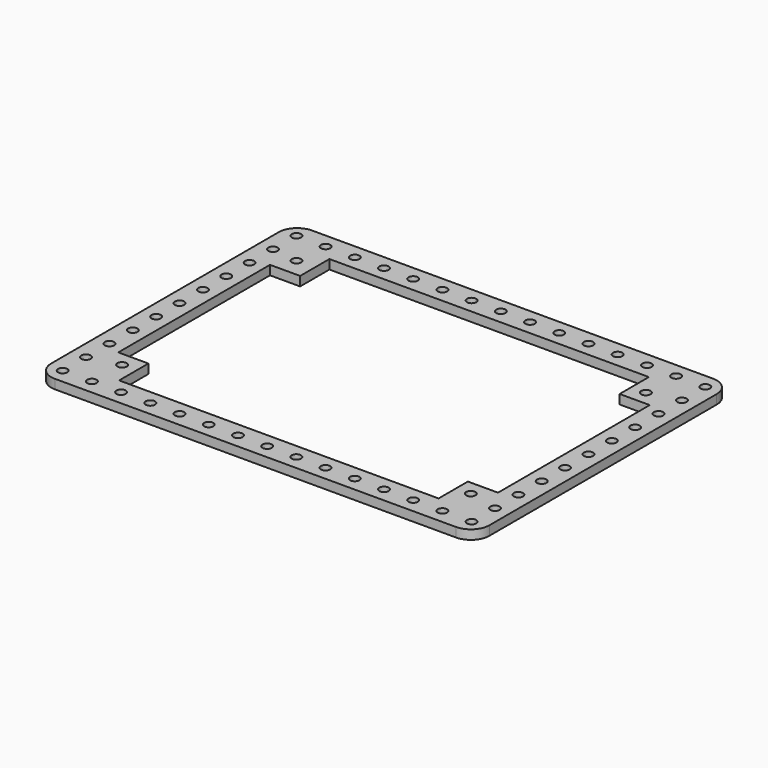
from build123d import *

# Parameters (mm, degrees)
F0_R     = 1.6
F1_DEPTH = 3.175


with BuildPart() as f1:
    # F0 (on Top) → F1 (new body)
    with BuildSketch(Plane.XY):
        with BuildLine():
            ThreePointArc((0, 6.35), (1.859872, 1.859872), (6.35, 0))
            Line((6.35, 0), (143.65, 0))
            ThreePointArc((143.65, 0), (148.140128, 1.859872), (150, 6.35))
            Line((150, 6.35), (150, 103.65))
            ThreePointArc((150, 103.65), (148.140128, 108.140128), (143.65, 110))
            Line((143.65, 110), (6.35, 110))
            ThreePointArc((6.35, 110), (1.859872, 108.140128), (0, 103.65))
            Line((0, 103.65), (0, 6.35))
        make_face()
        with Locations((5, 5)):
            Circle(F0_R, mode=Mode.SUBTRACT)
        with Locations((15, 5)):
            Circle(F0_R, mode=Mode.SUBTRACT)
        with Locations((25, 5)):
            Circle(F0_R, mode=Mode.SUBTRACT)
        with Locations((35, 5)):
            Circle(F0_R, mode=Mode.SUBTRACT)
        with Locations((5, 15)):
            Circle(F0_R, mode=Mode.SUBTRACT)
        with Locations((15.31, 17.535)):
            Circle(F0_R, mode=Mode.SUBTRACT)
        with Locations((5, 25)):
            Circle(F0_R, mode=Mode.SUBTRACT)
        with Locations((45, 5)):
            Circle(F0_R, mode=Mode.SUBTRACT)
        with Locations((55, 5)):
            Circle(F0_R, mode=Mode.SUBTRACT)
        with Locations((65, 5)):
            Circle(F0_R, mode=Mode.SUBTRACT)
        with Locations((5, 35)):
            Circle(F0_R, mode=Mode.SUBTRACT)
        with Locations((5, 45)):
            Circle(F0_R, mode=Mode.SUBTRACT)
        with Locations((75, 5)):
            Circle(F0_R, mode=Mode.SUBTRACT)
        with Locations((85, 5)):
            Circle(F0_R, mode=Mode.SUBTRACT)
        with Locations((95, 5)):
            Circle(F0_R, mode=Mode.SUBTRACT)
        with Locations((105, 5)):
            Circle(F0_R, mode=Mode.SUBTRACT)
        with Locations((115, 5)):
            Circle(F0_R, mode=Mode.SUBTRACT)
        with Locations((125, 5)):
            Circle(F0_R, mode=Mode.SUBTRACT)
        with Locations((135, 5)):
            Circle(F0_R, mode=Mode.SUBTRACT)
        with Locations((145, 5)):
            Circle(F0_R, mode=Mode.SUBTRACT)
        with Locations((134.69, 17.535)):
            Circle(F0_R, mode=Mode.SUBTRACT)
        with Locations((145, 15)):
            Circle(F0_R, mode=Mode.SUBTRACT)
        with Locations((145, 25)):
            Circle(F0_R, mode=Mode.SUBTRACT)
        with Locations((145, 35)):
            Circle(F0_R, mode=Mode.SUBTRACT)
        with Locations((145, 45)):
            Circle(F0_R, mode=Mode.SUBTRACT)
        with Locations((5, 55)):
            Circle(F0_R, mode=Mode.SUBTRACT)
        with Locations((5, 65)):
            Circle(F0_R, mode=Mode.SUBTRACT)
        with Locations((5, 75)):
            Circle(F0_R, mode=Mode.SUBTRACT)
        with Locations((5, 85)):
            Circle(F0_R, mode=Mode.SUBTRACT)
        with Locations((5, 95)):
            Circle(F0_R, mode=Mode.SUBTRACT)
        with Locations((14.04, 93.735)):
            Circle(F0_R, mode=Mode.SUBTRACT)
        with Locations((5, 105)):
            Circle(F0_R, mode=Mode.SUBTRACT)
        with Locations((15, 105)):
            Circle(F0_R, mode=Mode.SUBTRACT)
        with Locations((25, 105)):
            Circle(F0_R, mode=Mode.SUBTRACT)
        with Locations((35, 105)):
            Circle(F0_R, mode=Mode.SUBTRACT)
        with Locations((45, 105)):
            Circle(F0_R, mode=Mode.SUBTRACT)
        with Locations((55, 105)):
            Circle(F0_R, mode=Mode.SUBTRACT)
        with Locations((65, 105)):
            Circle(F0_R, mode=Mode.SUBTRACT)
        Polygon((20.31, 22.535), (10, 22.535), (10, 87.465), (20.31, 87.465), (20.31, 100), (129.69, 100), (129.69, 87.465), (140, 87.465), (140, 22.535), (129.69, 22.535), (129.69, 10), (20.31, 10), align=None, mode=Mode.SUBTRACT)
        with Locations((145, 55)):
            Circle(F0_R, mode=Mode.SUBTRACT)
        with Locations((145, 65)):
            Circle(F0_R, mode=Mode.SUBTRACT)
        with Locations((145, 75)):
            Circle(F0_R, mode=Mode.SUBTRACT)
        with Locations((75, 105)):
            Circle(F0_R, mode=Mode.SUBTRACT)
        with Locations((85, 105)):
            Circle(F0_R, mode=Mode.SUBTRACT)
        with Locations((95, 105)):
            Circle(F0_R, mode=Mode.SUBTRACT)
        with Locations((105, 105)):
            Circle(F0_R, mode=Mode.SUBTRACT)
        with Locations((145, 85)):
            Circle(F0_R, mode=Mode.SUBTRACT)
        with Locations((134.69, 92.465)):
            Circle(F0_R, mode=Mode.SUBTRACT)
        with Locations((145, 95)):
            Circle(F0_R, mode=Mode.SUBTRACT)
        with Locations((115, 105)):
            Circle(F0_R, mode=Mode.SUBTRACT)
        with Locations((125, 105)):
            Circle(F0_R, mode=Mode.SUBTRACT)
        with Locations((135, 105)):
            Circle(F0_R, mode=Mode.SUBTRACT)
        with Locations((145, 105)):
            Circle(F0_R, mode=Mode.SUBTRACT)
    extrude(amount=F1_DEPTH)


solid = f1.part
